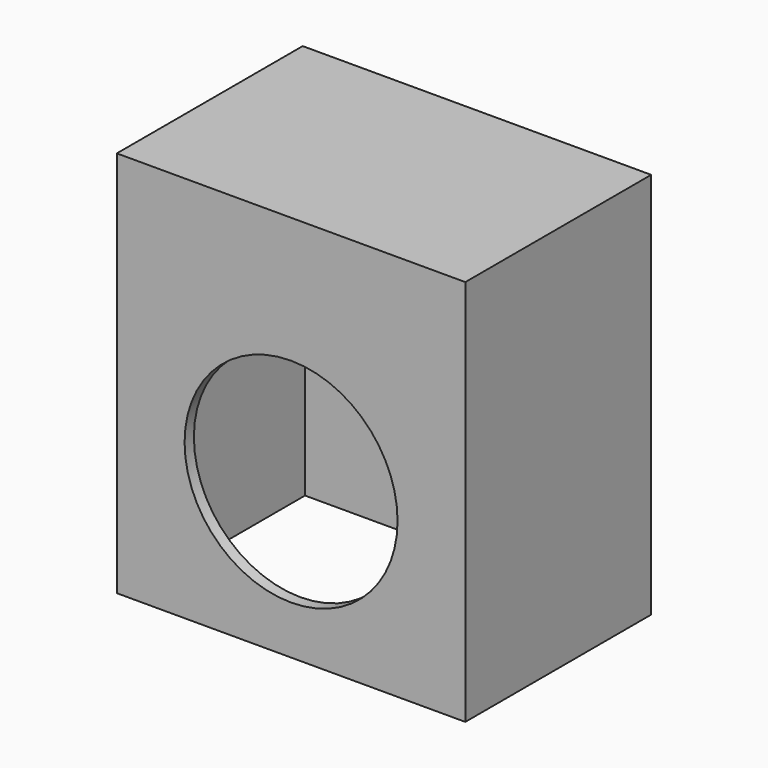
from build123d import *

# Parameters (mm, degrees)
F0_W     = 90
F0_H     = 60
F1_DEPTH = 100
F3_W     = 84
F3_H     = 54
F4_DEPTH = 95
F5_R     = 27.5
F6_DEPTH = 3


with BuildPart() as f1:
    # F0 (on Top) → F1 (new body)
    with BuildSketch(Plane.XY):
        with Locations((45, -30)):
            Rectangle(F0_W, F0_H)
    extrude(amount=F1_DEPTH)

    # F3 (on offset) → F4 (cut, through all)
    with BuildSketch(Plane.XY.offset(95)):
        with Locations((45, -30)):
            Rectangle(F3_W, F3_H)
    extrude(amount=-F4_DEPTH, mode=Mode.SUBTRACT)

    # F5 (on face) → F6 (cut, through all)
    with BuildSketch(Plane.XZ.offset(60)):
        with Locations((45, 40)):
            Circle(F5_R)
    extrude(amount=-F6_DEPTH, mode=Mode.SUBTRACT)


solid = f1.part
